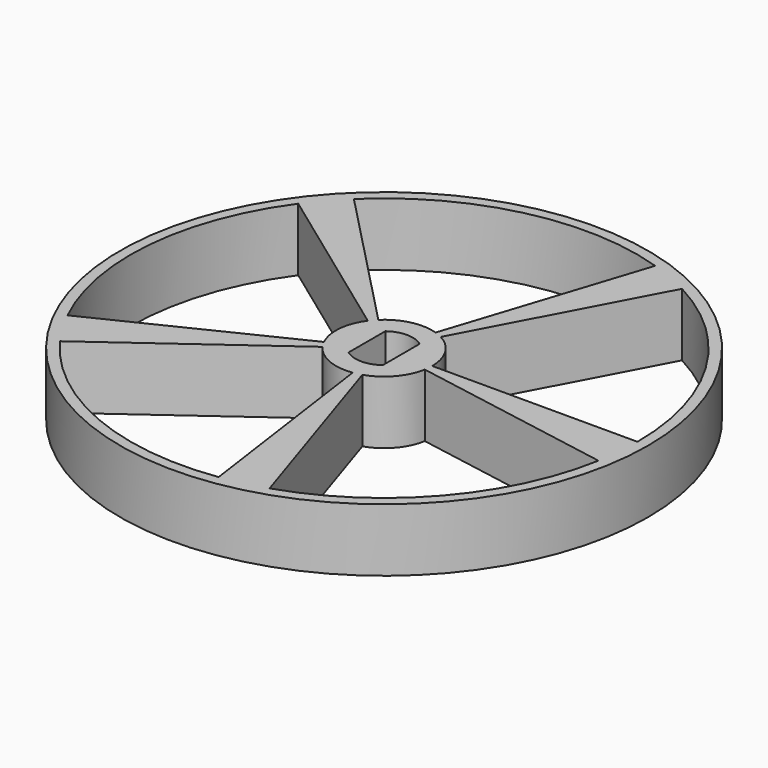
from build123d import *

# Parameters (mm, degrees)
F0_R     = 4.5593
F1_DEPTH = 5.969
F2_R     = 25
F3_DEPTH = 5.969


with BuildPart() as f1:
    # F0 (on Top) → F1 (new body)
    with BuildSketch(Plane.XY):
        Circle(F0_R)
        with BuildLine():
            Line((-1.6256, -2.1780407434), (-1.6256, 2.1780407434))
            ThreePointArc((-1.6256, 2.1780407434), (0, 2.7178), (1.6256, 2.1780407434))
            Line((1.6256, 2.1780407434), (1.6256, -2.1780407434))
            ThreePointArc((1.6256, -2.1780407434), (0, -2.7178), (-1.6256, -2.1780407434))
        make_face(mode=Mode.SUBTRACT)
    extrude(amount=F1_DEPTH)

    # F2 (on face) → F3 (join, through all)
    with BuildSketch(Plane.XY.offset(5.969)):
        Circle(F2_R)
        with BuildLine():
            ThreePointArc((4.5593, 0), (4.541950487, -0.3973691779), (4.4900339883, -0.7917141364))
            Line((4.4900339883, -0.7917141364), (23.6353860723, -4.167556264))
            ThreePointArc((23.6353860723, -4.167556264), (18.1130299253, -15.7454166958), (7.416407865, -22.8253563911))
            Line((7.416407865, -22.8253563911), (1.4089011825, -4.3361519747))
            ThreePointArc((1.4089011825, -4.3361519747), (1.0256193421, -4.4424454364), (0.6345319192, -4.5149292058))
            Line((0.6345319192, -4.5149292058), (3.340154423, -23.7664336498))
            ThreePointArc((3.340154423, -23.7664336498), (-9.3775470837, -22.0921164829), (-19.416407865, -14.106846055))
            Line((-19.416407865, -14.106846055), (-3.6885511825, -2.6798893008))
            ThreePointArc((-3.6885511825, -2.6798893008), (-3.9080828741, -2.3482130949), (-4.0978716953, -1.9986655696))
            Line((-4.0978716953, -1.9986655696), (-21.5710571112, -10.5209075229))
            ThreePointArc((-21.5710571112, -10.5209075229), (-23.9086727542, 2.0917378259), (-19.416407865, 14.106846055))
            Line((-19.416407865, 14.106846055), (-3.6885511825, 2.6798893008))
            ThreePointArc((-3.6885511825, 2.6798893008), (-3.4409473891, 2.9911699309), (-3.1671559084, 3.2796859517))
            Line((-3.1671559084, 3.2796859517), (-16.671800891, 17.2641552081))
            ThreePointArc((-16.671800891, 17.2641552081), (-5.3988253043, 23.3848815548), (7.416407865, 22.8253563911))
            Line((7.416407865, 22.8253563911), (1.4089011825, 4.3361519747))
            ThreePointArc((1.4089011825, 4.3361519747), (1.7814604341, 4.1968577783), (2.1404616962, 4.0256229601))
            Line((2.1404616962, 4.0256229601), (11.2673175069, 21.1907422286))
            ThreePointArc((11.2673175069, 21.1907422286), (20.5720152169, 12.3609137978), (24, 0))
            Line((24, 0), (4.5593, 0))
        make_face(mode=Mode.SUBTRACT)
    extrude(amount=-F3_DEPTH)


solid = f1.part
